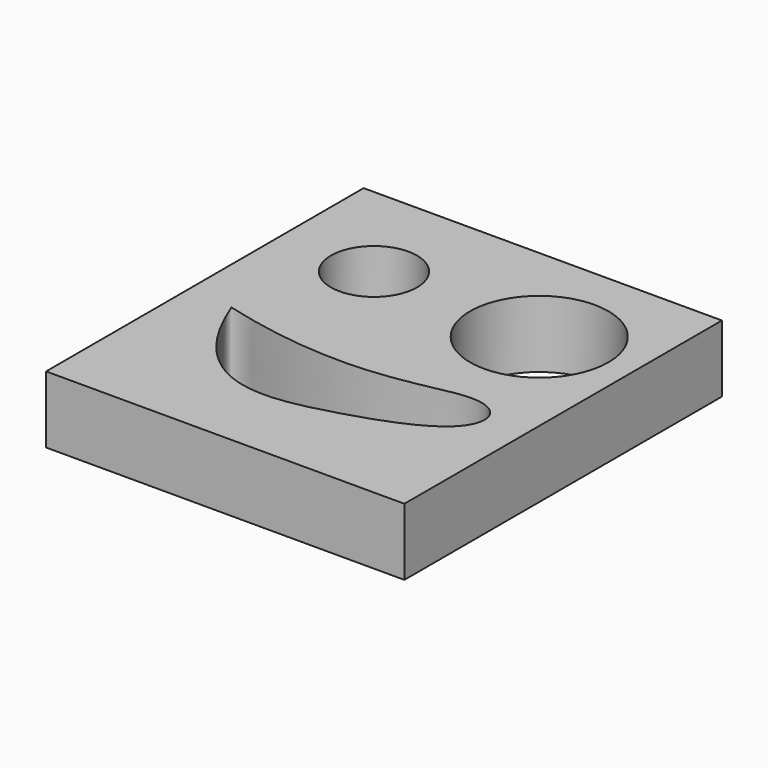
from build123d import *

# Parameters (mm, degrees)
SKETCH_W      = 53.45282
SKETCH_H      = 59.21522
SKETCH_R      = 6.425339
SKETCH_R_2    = 10.324995
EXTRUDE_DEPTH = 10


with BuildPart() as part:
    # Sketch → Extrude (new body)
    with BuildSketch(Plane.XY):
        with Locations((0, 2.318671)):
            Rectangle(SKETCH_W, SKETCH_H)
        with BuildLine():
            add(Edge.make_bspline(
                [(-19.946921, -1.195606), (0, -6.54668), (19.142079, 2.263024), (23.318579, -7.917126), (7.134789, -14.899626), (-13.22541, -18.684495), (-19.946921, -1.195606)],
                knots=[0, 0, 0, 0, 0.25, 0.5, 0.75, 1, 1, 1, 1], degree=3))
        make_face(mode=Mode.SUBTRACT)
        with Locations((-12.647216, 16.255993)):
            Circle(SKETCH_R, mode=Mode.SUBTRACT)
        with Locations((12.679785, 15.423649)):
            Circle(SKETCH_R_2, mode=Mode.SUBTRACT)
    extrude(amount=EXTRUDE_DEPTH)


solid = part.part
